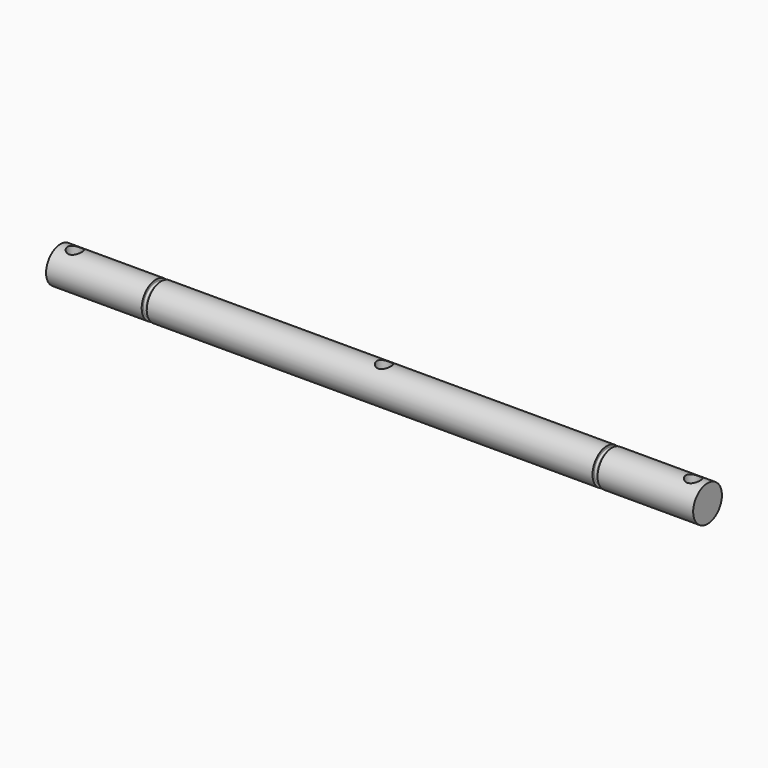
from build123d import *

# Parameters (mm, degrees)
F2_R     = 1
F3_DEPTH = 12.5


with BuildPart() as f1:
    # F0 (on Front) → F1 (revolve)
    with BuildSketch(Plane.XZ):
        with BuildLine():
            Line((-31.7, 2.5), (-45, 2.5))
            Line((-45, 2.5), (-45, 0))
            Line((-45, 0), (45, 0))
            Line((45, 0), (45, 2.5))
            Line((45, 2.5), (31.7, 2.5))
            Line((31.7, 2.5), (31.7, 2.2))
            ThreePointArc((31.7, 2.2), (31.641421, 2.058579), (31.5, 2))
            Line((31.5, 2), (31.2, 2))
            ThreePointArc((31.2, 2), (31.058579, 2.058579), (31, 2.2))
            Line((31, 2.2), (31, 2.5))
            Line((31, 2.5), (-31, 2.5))
            Line((-31, 2.5), (-31, 2.2))
            ThreePointArc((-31, 2.2), (-31.058579, 2.058579), (-31.2, 2))
            Line((-31.2, 2), (-31.5, 2))
            ThreePointArc((-31.5, 2), (-31.641421, 2.058579), (-31.7, 2.2))
            Line((-31.7, 2.2), (-31.7, 2.5))
        make_face()
    revolve(axis=Axis((0, 0, 0), (1, 0, 0)))

    # F2 (on Top) → F3 (cut, symmetric)
    with BuildSketch(Plane.XY):
        with Locations((-43, 0)):
            Circle(F2_R)
        Circle(F2_R)
        with Locations((43, 0)):
            Circle(F2_R)
    extrude(amount=F3_DEPTH, both=True, mode=Mode.SUBTRACT)


solid = f1.part
